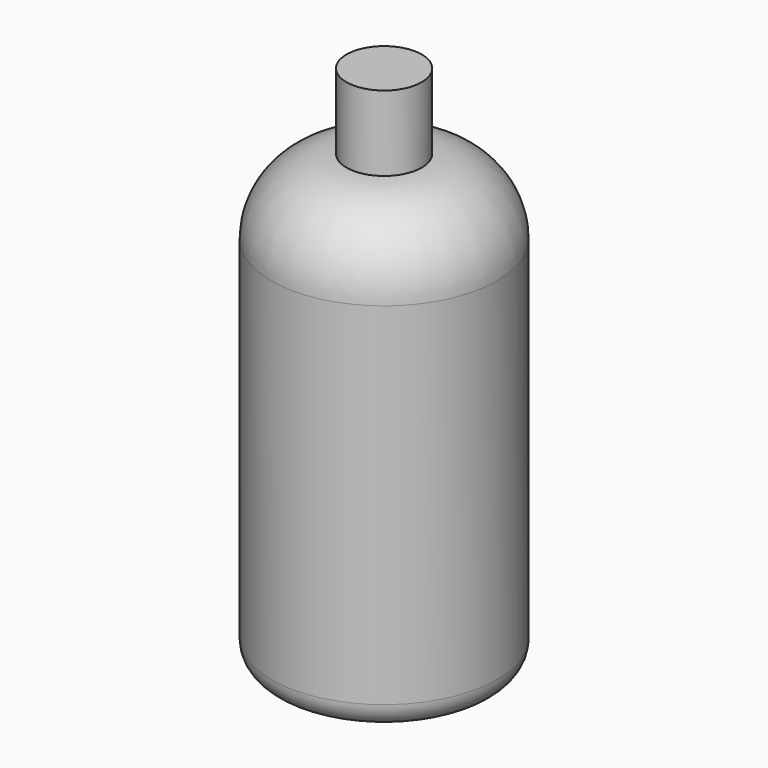
from build123d import *

# Parameters (mm, degrees)
F0_W = 19.05
F0_H = 38.1


with BuildPart() as f1:
    # F0 (on Front) → F1 (revolve)
    with BuildSketch(Plane.XZ):
        with BuildLine():
            Line((55.466793, 199.645726), (36.416793, 199.645726))
            Line((36.416793, 199.645726), (36.416793, -28.954274))
            Line((36.416793, -28.954274), (80.866793, -28.954274))
            ThreePointArc((80.866793, -28.954274), (89.847049, -25.23453), (93.566793, -16.254274))
            Line((93.566793, -16.254274), (93.566793, 161.545726))
            ThreePointArc((93.566793, 161.545726), (82.407561, 188.486495), (55.466793, 199.645726))
        make_face()
        with Locations((45.941793, 218.695726)):
            Rectangle(F0_W, F0_H)
    revolve(axis=Axis((36.416793, 0, 103.577597), (0, 0, -1)))


solid = f1.part
